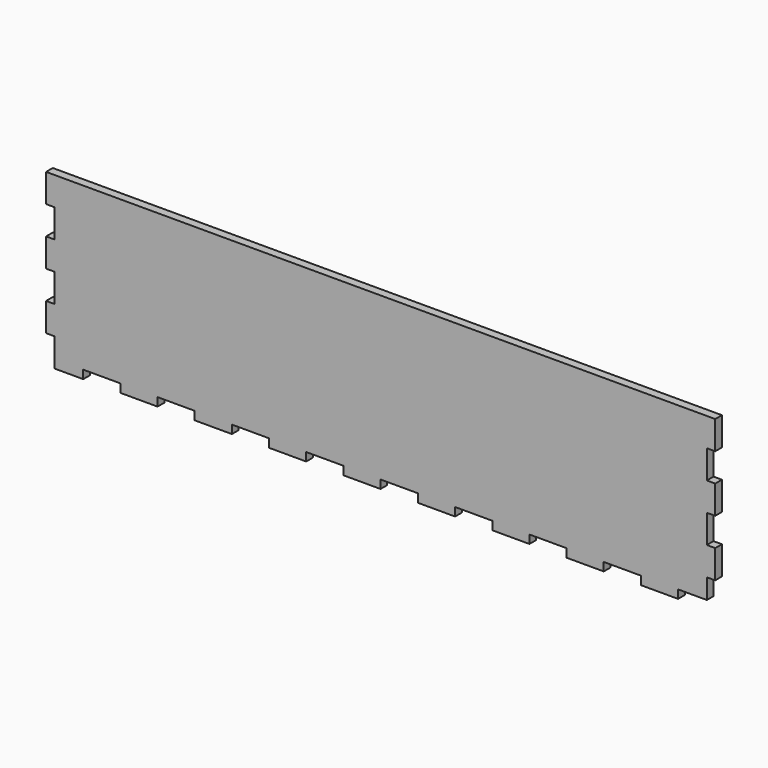
from build123d import *

# Parameters (mm, degrees)
F1_DEPTH = 3


with BuildPart() as f1:
    # F0 (on Front) → F1 (new body)
    with BuildSketch(Plane.XZ):
        Polygon((93.15, -30.5), (106.45, -30.5), (106.45, -27.5), (116.75, -27.5), (116.75, -20.33), (119.75, -20.33), (119.75, -10.164), (116.75, -10.164), (116.75, 0.002), (119.75, 0.002), (119.75, 10.168), (116.75, 10.168), (116.75, 20.334), (119.75, 20.334), (119.75, 30.5), (-119.75, 30.5), (-119.75, 20.334), (-116.75, 20.334), (-116.75, 10.168), (-119.75, 10.168), (-119.75, 0.002), (-116.75, 0.002), (-116.75, -10.164), (-119.75, -10.164), (-119.75, -20.33), (-116.75, -20.33), (-116.75, -30.5), (-106.45, -30.5), (-106.45, -27.5), (-93.15, -27.5), (-93.15, -30.5), (-79.85, -30.5), (-79.85, -27.5), (-66.55, -27.5), (-66.55, -30.5), (-53.25, -30.5), (-53.25, -27.5), (-39.95, -27.5), (-39.95, -30.5), (-26.65, -30.5), (-26.65, -27.5), (-13.35, -27.5), (-13.35, -30.5), (-0.05, -30.5), (-0.05, -27.5), (0.05, -27.5), (13.35, -27.5), (13.35, -30.5), (26.65, -30.5), (26.65, -27.5), (39.95, -27.5), (39.95, -30.5), (53.25, -30.5), (53.25, -27.5), (66.55, -27.5), (66.55, -30.5), (79.85, -30.5), (79.85, -27.5), (93.15, -27.5), align=None)
    extrude(amount=F1_DEPTH)


solid = f1.part
